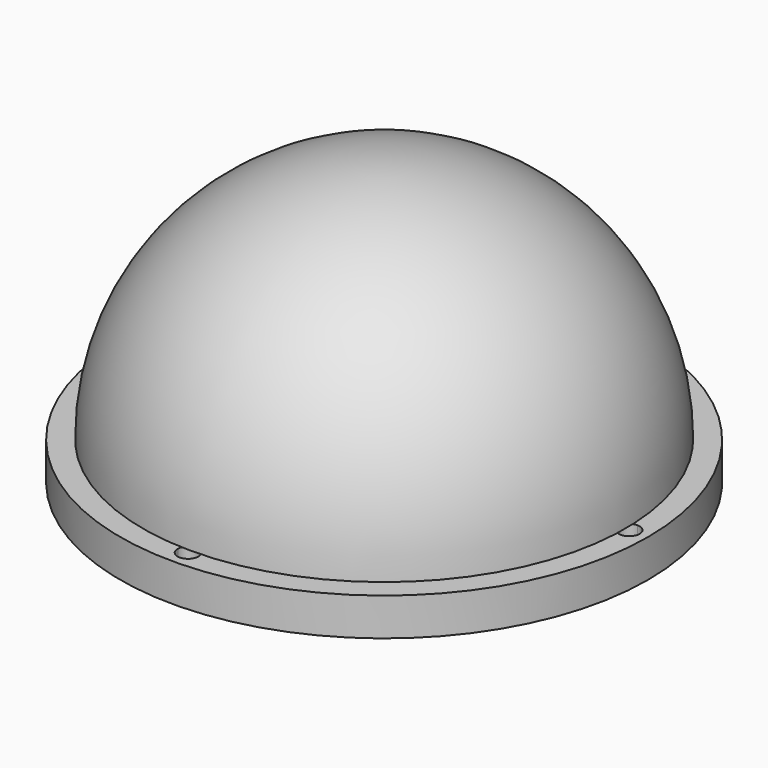
from build123d import *

# Parameters (mm, degrees)
F0_R     = 35
F0_R_2   = 30
F1_DEPTH = 5
F3_DEPTH = 25


with BuildPart() as f1:
    # F0 (on Top) → F1 (new body)
    with BuildSketch(Plane.XY):
        Circle(F0_R)
        Circle(F0_R_2, mode=Mode.SUBTRACT)
    extrude(amount=F1_DEPTH)

    # F2 (on Top) → F3 (cut)
    with BuildSketch(Plane.XY):
        with BuildLine():
            ThreePointArc((-1.3799724468, 32.4706894914), (0, 32.5), (1.3799724468, 32.4706894914))
            ThreePointArc((1.3799724468, 32.4706894914), (1.3802058756, 32.4853439195), (1.3802836882, 32.5))
            ThreePointArc((1.3802836882, 32.5), (-0.0146560805, 33.8802058756), (-1.3799724468, 32.4706894914))
        make_face()
        with BuildLine():
            ThreePointArc((-1.3799724468, 32.4706894914), (0, 31.1197163118), (1.3799724468, 32.4706894914))
            ThreePointArc((1.3799724468, 32.4706894914), (0, 32.5), (-1.3799724468, 32.4706894914))
        make_face()
        with BuildLine():
            ThreePointArc((32.4706894914, 1.3799724468), (32.4926715466, 0.6901418441), (32.5, 0))
            ThreePointArc((32.5, 0), (32.4926715466, -0.6901418441), (32.4706894914, -1.3799724468))
            ThreePointArc((32.4706894914, -1.3799724468), (33.4655895202, -0.986316348), (33.8802836882, 0))
            ThreePointArc((33.8802836882, 0), (33.4655895202, 0.986316348), (32.4706894914, 1.3799724468))
        make_face()
        with BuildLine():
            ThreePointArc((32.4706894914, -1.3799724468), (32.4926715466, -0.6901418441), (32.5, 0))
            ThreePointArc((32.5, 0), (32.4926715466, 0.6901418441), (32.4706894914, 1.3799724468))
            ThreePointArc((32.4706894914, 1.3799724468), (31.1197163118, 0), (32.4706894914, -1.3799724468))
        make_face()
        with BuildLine():
            ThreePointArc((-32.4706894914, -1.3799724468), (-32.5, 0), (-32.4706894914, 1.3799724468))
            ThreePointArc((-32.4706894914, 1.3799724468), (-33.8802836882, 0), (-32.4706894914, -1.3799724468))
        make_face()
        with BuildLine():
            ThreePointArc((-31.1197163118, 0), (-31.513683652, 0.9655895202), (-32.4706894914, 1.3799724468))
            ThreePointArc((-32.4706894914, 1.3799724468), (-32.5, 0), (-32.4706894914, -1.3799724468))
            ThreePointArc((-32.4706894914, -1.3799724468), (-31.513683652, -0.9655895202), (-31.1197163118, 0))
        make_face()
        with BuildLine():
            ThreePointArc((1.3802836882, -32.5), (1.3802058756, -32.4853439195), (1.3799724468, -32.4706894914))
            ThreePointArc((1.3799724468, -32.4706894914), (0, -32.5), (-1.3799724468, -32.4706894914))
            ThreePointArc((-1.3799724468, -32.4706894914), (-0.0146560805, -33.8802058756), (1.3802836882, -32.5))
        make_face()
        with BuildLine():
            ThreePointArc((-1.3799724468, -32.4706894914), (0, -32.5), (1.3799724468, -32.4706894914))
            ThreePointArc((1.3799724468, -32.4706894914), (0, -31.1197163118), (-1.3799724468, -32.4706894914))
        make_face()
    extrude(amount=F3_DEPTH, mode=Mode.SUBTRACT)


with BuildPart() as f5:
    # F4 (on Right) → F5 (revolve)
    with BuildSketch(Plane.YZ):
        with BuildLine():
            ThreePointArc((-29.9998722602, 5.0236273346), (-21.2441332108, 26.2934022241), (0, 35.1111737266))
            Line((0, 35.1111737266), (0, 37.1111737266))
            ThreePointArc((0, 37.1111737266), (-22.661727469, 27.7042281488), (-31.9998526254, 5.0140554843))
            Line((-31.9998526254, 5.0140554843), (-29.9998722602, 5.0236273346))
        make_face()
    revolve(axis=Axis((0, 0, 36.1111737266), (0, 0, -1)))


solid = Compound([f1.part, f5.part])
